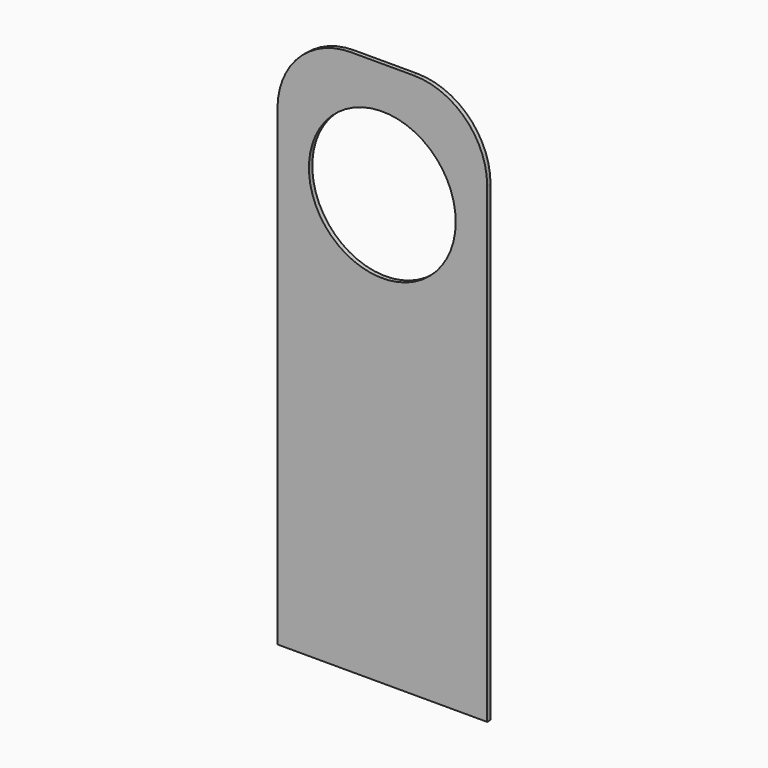
from build123d import *

# Parameters (mm, degrees)
F0_R     = 35
F1_DEPTH = 2


with BuildPart() as f1:
    # F0 (on Front) → F1 (new body)
    with BuildSketch(Plane.XZ):
        with BuildLine():
            Line((15, 130), (-15, 130))
            ThreePointArc((-15, 130), (-39.748737, 119.748737), (-50, 95))
            Line((-50, 95), (-50, -130))
            Line((-50, -130), (50, -130))
            Line((50, -130), (50, 95))
            ThreePointArc((50, 95), (39.748737, 119.748737), (15, 130))
        make_face()
        with Locations((0, 75)):
            Circle(F0_R, mode=Mode.SUBTRACT)
    extrude(amount=F1_DEPTH)


solid = f1.part
